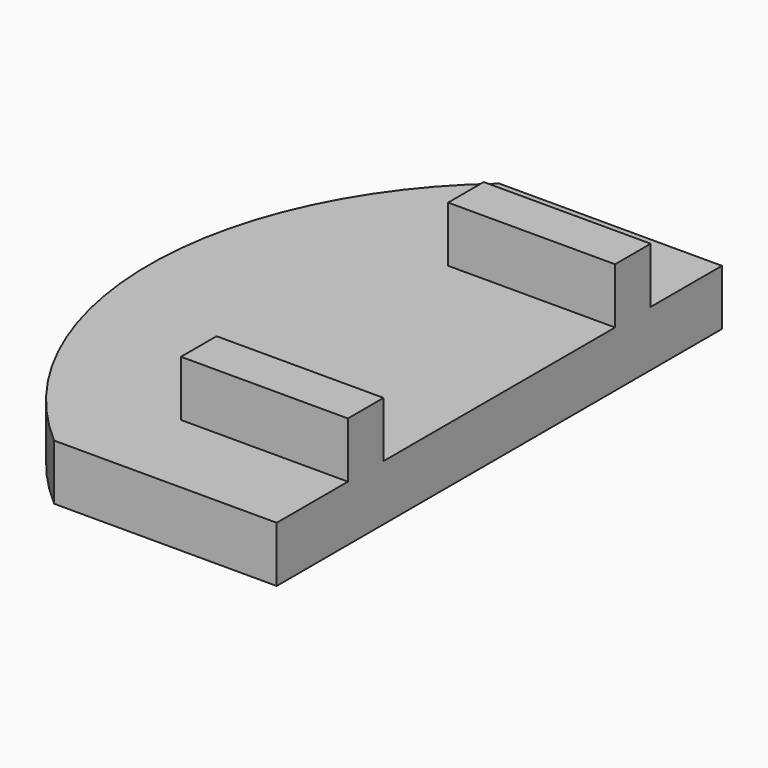
from build123d import *

# Parameters (mm, degrees)
F0_W     = 20
F0_H     = 50
F1_DEPTH = 5
F2_W     = 15
F2_H     = 4
F3_DEPTH = 5


with BuildPart() as f1:
    # F0 (on Top) → F1 (new body)
    with BuildSketch(Plane.XY):
        Rectangle(F0_W, F0_H)
        with BuildLine():
            ThreePointArc((-10, 25), (-21.477274, 0), (-10, -25))
            Line((-10, -25), (-10, 25))
        make_face()
    extrude(amount=F1_DEPTH)

    # F2 (on face) → F3 (join)
    with BuildSketch(Plane.XY.offset(5)):
        with Locations((2.5, 15)):
            Rectangle(F2_W, F2_H)
        with Locations((2.5, -15)):
            Rectangle(F2_W, F2_H)
    extrude(amount=F3_DEPTH)


solid = f1.part
